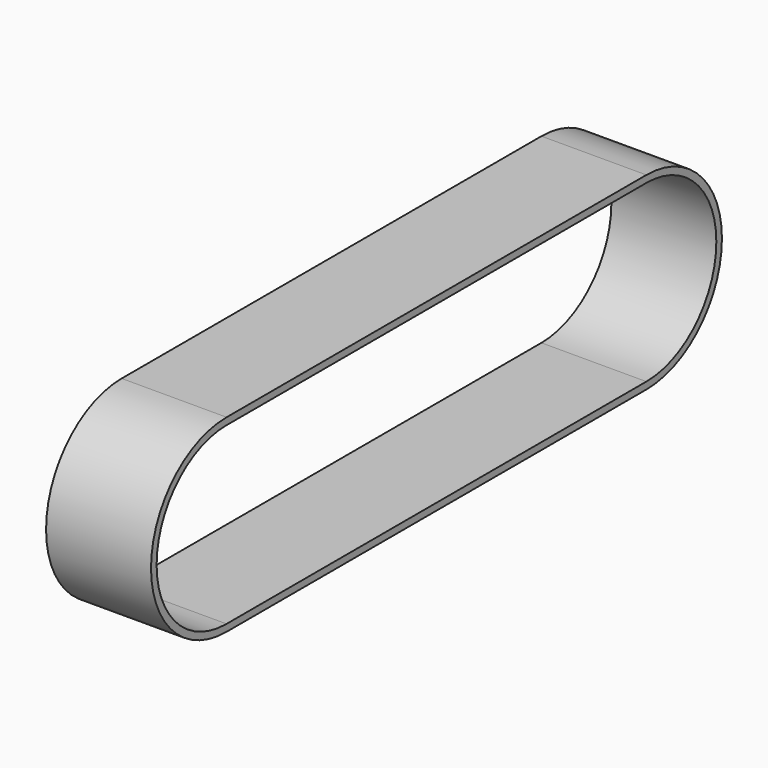
from build123d import *

# Parameters (mm, degrees)
F1_DEPTH = 30


with BuildPart() as f1:
    # F0 (on Right) → F1 (new body)
    with BuildSketch(Plane.YZ):
        with BuildLine():
            Line((150, 27), (0, 27))
            ThreePointArc((0, 27), (-27, 0), (0, -27))
            Line((0, -27), (150, -27))
            ThreePointArc((150, -27), (177, 0), (150, 27))
        make_face()
        with BuildLine():
            ThreePointArc((0, -25), (-25, 0), (0, 25))
            Line((0, 25), (150, 25))
            ThreePointArc((150, 25), (175, 0), (150, -25))
            Line((150, -25), (0, -25))
        make_face(mode=Mode.SUBTRACT)
    extrude(amount=F1_DEPTH)


solid = f1.part
